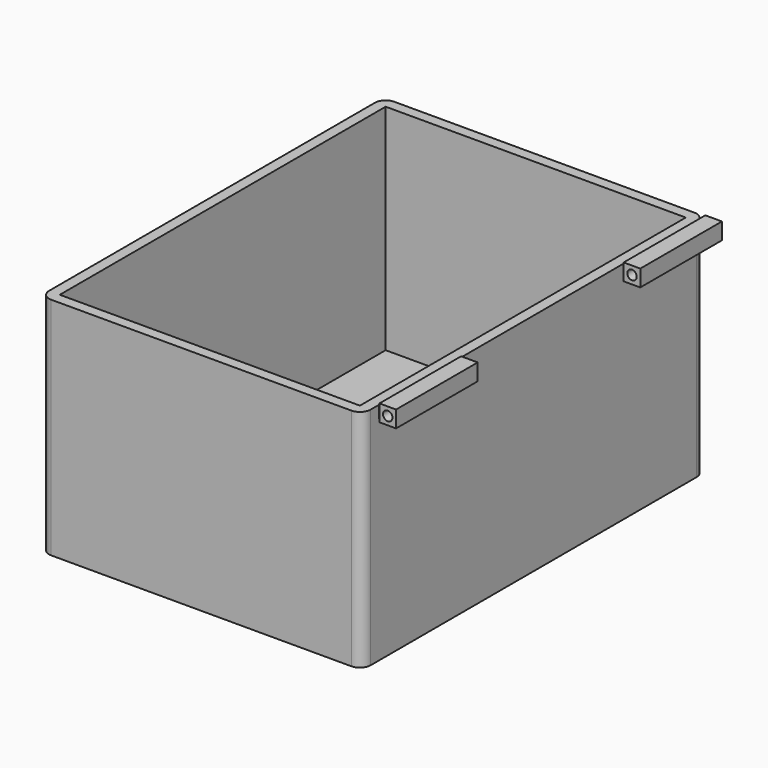
from build123d import *

# Parameters (mm, degrees)
F0_W     = 76.2
F0_H     = 101.6
F0_W_2   = 71.12
F0_H_2   = 96.52
F1_DEPTH = 53.34
F2_DEPTH = 2.54
F3_R     = 2.54
F5_START = 24.0792
F4_R     = 1.1176
F5_DEPTH = 24.1808
F6_START = -24.0792
F6_DEPTH = 24.1808
F7_START = 26.6192
F7_DEPTH = 19.1008
F8_START = -26.6192
F8_DEPTH = 19.1008


with BuildPart() as f1:
    # F0 (on Top) → F1 (new body)
    with BuildSketch(Plane.XY):
        Rectangle(F0_W, F0_H)
        Rectangle(F0_W_2, F0_H_2, mode=Mode.SUBTRACT)
    extrude(amount=F1_DEPTH)

    # F3
    f3_edges = [f1.edges().sort_by_distance(p)[0] for p in [
        (38.1, 50.8, 26.67),
        (38.1, -50.8, 26.67),
        (-38.1, 50.8, 26.67),
        (-38.1, -50.8, 26.67),
    ]]
    fillet(f3_edges, radius=F3_R)


with BuildPart() as f2:
    # F0 (on Top) → F2 (new body)
    with BuildSketch(Plane.XY):
        Rectangle(F0_W_2, F0_H_2)
    extrude(amount=F2_DEPTH)


with BuildPart() as f5:
    # F4 (on Front) → F5 (new body)
    with BuildSketch(Plane.XZ.offset(F5_START)):
        with BuildLine():
            ThreePointArc((43.6170585206, 53.3402232693), (43.1892879745, 54.3729527232), (42.1565585206, 54.8007232693))
            ThreePointArc((42.1565585206, 54.8007232693), (41.813540729, 54.7598707764), (41.4897124367, 54.6395987156))
            ThreePointArc((41.4897124367, 54.6395987156), (40.7051061088, 53.5025382299), (41.2191582331, 52.2202496307))
            ThreePointArc((41.2191582331, 52.2202496307), (41.8726372288, 51.9075862077), (42.5959689009, 51.9473920635))
            ThreePointArc((42.5959689009, 51.9473920635), (43.3344420272, 52.4767125891), (43.6170585206, 53.3402232693))
        make_face()
        with Locations((42.1565585206, 53.3402232693)):
            Circle(F4_R, mode=Mode.SUBTRACT)
        with BuildLine():
            Line((44.122479856, 55.3104255827), (41.1208962703, 55.3104255827))
            Line((41.1208962703, 55.3104255827), (42.1565585206, 54.8007232693))
            ThreePointArc((42.1565585206, 54.8007232693), (43.1892879745, 54.3729527232), (43.6170585206, 53.3402232693))
            ThreePointArc((43.6170585206, 53.3402232693), (43.3344420272, 52.4767125891), (42.5959689009, 51.9473920635))
            Line((42.5959689009, 51.9473920635), (40.9301563026, 51.3700209558))
            Line((40.9301563026, 51.3700209558), (44.122479856, 51.3700209558))
            Line((44.122479856, 51.3700209558), (44.122479856, 55.3104255827))
        make_face()
        with BuildLine():
            Line((40.1906371851, 54.047077149), (40.1906371851, 52.7403943495))
            Line((40.1906371851, 52.7403943495), (41.2191582331, 52.2202496307))
            ThreePointArc((41.2191582331, 52.2202496307), (40.7051061088, 53.5025382299), (41.4897124367, 54.6395987156))
            Line((41.4897124367, 54.6395987156), (40.1906371851, 54.047077149))
        make_face()
        with BuildLine():
            Line((41.2191582331, 52.2202496307), (40.1906371851, 52.7403943495))
            Line((40.1906371851, 52.7403943495), (40.1906371851, 51.3700209558))
            Line((40.1906371851, 51.3700209558), (40.9301563026, 51.3700209558))
            Line((40.9301563026, 51.3700209558), (42.5959689009, 51.9473920635))
            ThreePointArc((42.5959689009, 51.9473920635), (41.8726372288, 51.9075862077), (41.2191582331, 52.2202496307))
        make_face()
        with BuildLine():
            Line((42.1565585206, 54.8007232693), (41.1208962703, 55.3104255827))
            Line((41.1208962703, 55.3104255827), (40.1906371851, 55.3104255827))
            Line((40.1906371851, 55.3104255827), (40.1906371851, 54.047077149))
            Line((40.1906371851, 54.047077149), (41.4897124367, 54.6395987156))
            ThreePointArc((41.4897124367, 54.6395987156), (41.813540729, 54.7598707764), (42.1565585206, 54.8007232693))
        make_face()
    extrude(amount=F5_DEPTH)

    # F4 (on Front) → F7 (join)
    with BuildSketch(Plane.XZ.offset(F7_START)):
        with BuildLine():
            Line((40.1906371851, 54.047077149), (40.1906371851, 52.7403943495))
            Line((40.1906371851, 52.7403943495), (41.2191582331, 52.2202496307))
            ThreePointArc((41.2191582331, 52.2202496307), (40.7051061088, 53.5025382299), (41.4897124367, 54.6395987156))
            Line((41.4897124367, 54.6395987156), (40.1906371851, 54.047077149))
        make_face()
        with BuildLine():
            Line((41.2191582331, 52.2202496307), (40.1906371851, 52.7403943495))
            Line((40.1906371851, 52.7403943495), (40.1906371851, 51.3700209558))
            Line((40.1906371851, 51.3700209558), (40.9301563026, 51.3700209558))
            Line((40.9301563026, 51.3700209558), (42.5959689009, 51.9473920635))
            ThreePointArc((42.5959689009, 51.9473920635), (41.8726372288, 51.9075862077), (41.2191582331, 52.2202496307))
        make_face()
        Polygon((38.1619204926, 53.1217586263), (38.0929333965, 53.0893978387), (38.0158303237, 50.3599147648), (40.9301563026, 51.3700209558), (40.1906371851, 51.3700209558), (40.1906371851, 52.7403943495), (38.8321008147, 53.4274347554), align=None)
        Polygon((38.1619204926, 53.1217586263), (38.0929333965, 53.0893978387), (38.0158303237, 50.3599147648), (40.9301563026, 51.3700209558), (40.1906371851, 51.3700209558), (40.1906371851, 52.7403943495), (38.8321008147, 53.4274347554), align=None)
        Polygon((40.1906371851, 54.047077149), (38.8321008147, 53.4274347554), (40.1906371851, 52.7403943495), align=None)
    extrude(amount=F7_DEPTH)


with BuildPart() as f6:
    # F4 (on Front) → F6 (new body)
    with BuildSketch(Plane.XZ.offset(F6_START)):
        with BuildLine():
            ThreePointArc((43.6170585206, 53.3402232693), (43.1892879745, 54.3729527232), (42.1565585206, 54.8007232693))
            ThreePointArc((42.1565585206, 54.8007232693), (41.813540729, 54.7598707764), (41.4897124367, 54.6395987156))
            ThreePointArc((41.4897124367, 54.6395987156), (40.7051061088, 53.5025382299), (41.2191582331, 52.2202496307))
            ThreePointArc((41.2191582331, 52.2202496307), (41.8726372288, 51.9075862077), (42.5959689009, 51.9473920635))
            ThreePointArc((42.5959689009, 51.9473920635), (43.3344420272, 52.4767125891), (43.6170585206, 53.3402232693))
        make_face()
        with Locations((42.1565585206, 53.3402232693)):
            Circle(F4_R, mode=Mode.SUBTRACT)
        with BuildLine():
            Line((44.122479856, 55.3104255827), (41.1208962703, 55.3104255827))
            Line((41.1208962703, 55.3104255827), (42.1565585206, 54.8007232693))
            ThreePointArc((42.1565585206, 54.8007232693), (43.1892879745, 54.3729527232), (43.6170585206, 53.3402232693))
            ThreePointArc((43.6170585206, 53.3402232693), (43.3344420272, 52.4767125891), (42.5959689009, 51.9473920635))
            Line((42.5959689009, 51.9473920635), (40.9301563026, 51.3700209558))
            Line((40.9301563026, 51.3700209558), (44.122479856, 51.3700209558))
            Line((44.122479856, 51.3700209558), (44.122479856, 55.3104255827))
        make_face()
        with BuildLine():
            Line((42.1565585206, 54.8007232693), (41.1208962703, 55.3104255827))
            Line((41.1208962703, 55.3104255827), (40.1906371851, 55.3104255827))
            Line((40.1906371851, 55.3104255827), (40.1906371851, 54.047077149))
            Line((40.1906371851, 54.047077149), (41.4897124367, 54.6395987156))
            ThreePointArc((41.4897124367, 54.6395987156), (41.813540729, 54.7598707764), (42.1565585206, 54.8007232693))
        make_face()
        with BuildLine():
            Line((40.1906371851, 54.047077149), (40.1906371851, 52.7403943495))
            Line((40.1906371851, 52.7403943495), (41.2191582331, 52.2202496307))
            ThreePointArc((41.2191582331, 52.2202496307), (40.7051061088, 53.5025382299), (41.4897124367, 54.6395987156))
            Line((41.4897124367, 54.6395987156), (40.1906371851, 54.047077149))
        make_face()
        with BuildLine():
            Line((41.2191582331, 52.2202496307), (40.1906371851, 52.7403943495))
            Line((40.1906371851, 52.7403943495), (40.1906371851, 51.3700209558))
            Line((40.1906371851, 51.3700209558), (40.9301563026, 51.3700209558))
            Line((40.9301563026, 51.3700209558), (42.5959689009, 51.9473920635))
            ThreePointArc((42.5959689009, 51.9473920635), (41.8726372288, 51.9075862077), (41.2191582331, 52.2202496307))
        make_face()
    extrude(amount=-F6_DEPTH)

    # F4 (on Front) → F8 (join)
    with BuildSketch(Plane.XZ.offset(F8_START)):
        with BuildLine():
            Line((41.2191582331, 52.2202496307), (40.1906371851, 52.7403943495))
            Line((40.1906371851, 52.7403943495), (40.1906371851, 51.3700209558))
            Line((40.1906371851, 51.3700209558), (40.9301563026, 51.3700209558))
            Line((40.9301563026, 51.3700209558), (42.5959689009, 51.9473920635))
            ThreePointArc((42.5959689009, 51.9473920635), (41.8726372288, 51.9075862077), (41.2191582331, 52.2202496307))
        make_face()
        Polygon((38.1619204926, 53.1217586263), (38.0929333965, 53.0893978387), (38.0158303237, 50.3599147648), (40.9301563026, 51.3700209558), (40.1906371851, 51.3700209558), (40.1906371851, 52.7403943495), (38.8321008147, 53.4274347554), align=None)
        Polygon((40.1906371851, 54.047077149), (38.8321008147, 53.4274347554), (40.1906371851, 52.7403943495), align=None)
        with BuildLine():
            Line((40.1906371851, 54.047077149), (40.1906371851, 52.7403943495))
            Line((40.1906371851, 52.7403943495), (41.2191582331, 52.2202496307))
            ThreePointArc((41.2191582331, 52.2202496307), (40.7051061088, 53.5025382299), (41.4897124367, 54.6395987156))
            Line((41.4897124367, 54.6395987156), (40.1906371851, 54.047077149))
        make_face()
        Polygon((38.1619204926, 53.1217586263), (38.0929333965, 53.0893978387), (38.0158303237, 50.3599147648), (40.9301563026, 51.3700209558), (40.1906371851, 51.3700209558), (40.1906371851, 52.7403943495), (38.8321008147, 53.4274347554), align=None)
    extrude(amount=-F8_DEPTH)


solid = Compound([f1.part, f2.part, f5.part, f6.part])
